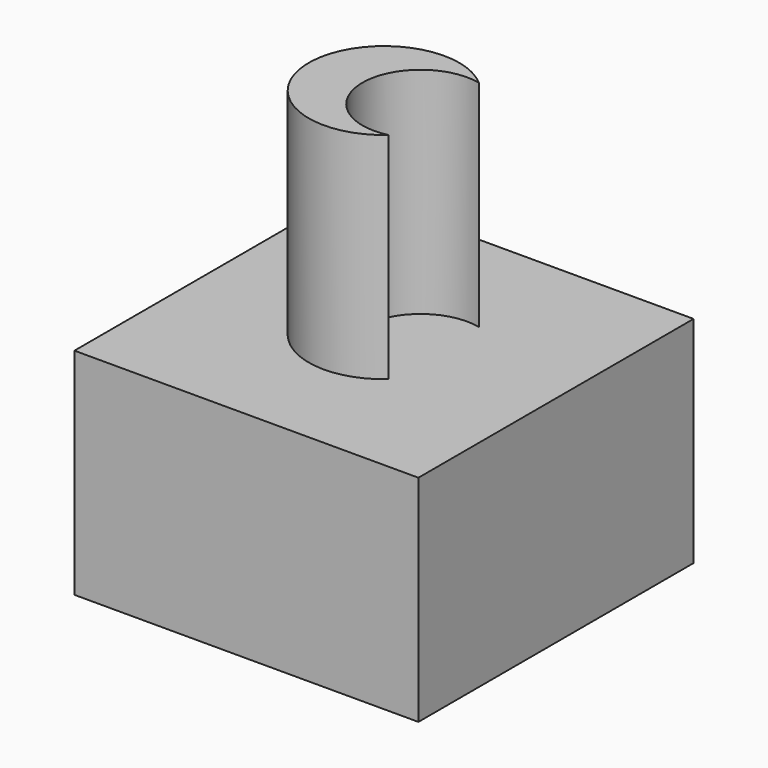
from build123d import *

# Parameters (mm, degrees)
BOX001_W          = 10
BOX001_H          = 10
BOX001_DEPTH      = 8
CYLINDER_R        = 2.7
CYLINDER_DEPTH    = 10
CYLINDER001_R     = 3.5
CYLINDER001_DEPTH = 10
BOX_W             = 16
BOX_H             = 16
BOX_DEPTH         = 10


with BuildPart() as cube001:
    # Box001 → Box001 (new body)
    with BuildSketch(Plane(origin=(-5, -5, 0), x_dir=(1, 0, 0), z_dir=(0, 0, 1))):
        with Locations((5, 5)):
            Rectangle(BOX001_W, BOX001_H)
    extrude(amount=BOX001_DEPTH)


with BuildPart() as cylinder:
    # Cylinder → Cylinder (new body)
    with BuildSketch(Plane(origin=(1.7, 0, 10), x_dir=(1, 0, 0), z_dir=(0, 0, 1))):
        Circle(CYLINDER_R)
    extrude(amount=CYLINDER_DEPTH)


with BuildPart() as cut:
    # Cylinder001 → Cylinder001 (new body)
    with BuildSketch(Plane.XY.offset(10)):
        Circle(CYLINDER001_R)
    extrude(amount=CYLINDER001_DEPTH)

    # Cut: cut Cylinder
    add(cylinder.part, mode=Mode.SUBTRACT)


with BuildPart() as cut001:
    # Box → Box (new body)
    with BuildSketch(Plane(origin=(-8, -8, 0), x_dir=(1, 0, 0), z_dir=(0, 0, 1))):
        with Locations((8, 8)):
            Rectangle(BOX_W, BOX_H)
    extrude(amount=BOX_DEPTH)

    # Fusion: union Cut
    add(cut.part)

    # Cut001: cut Cube001
    add(cube001.part, mode=Mode.SUBTRACT)


solid = cut001.part
